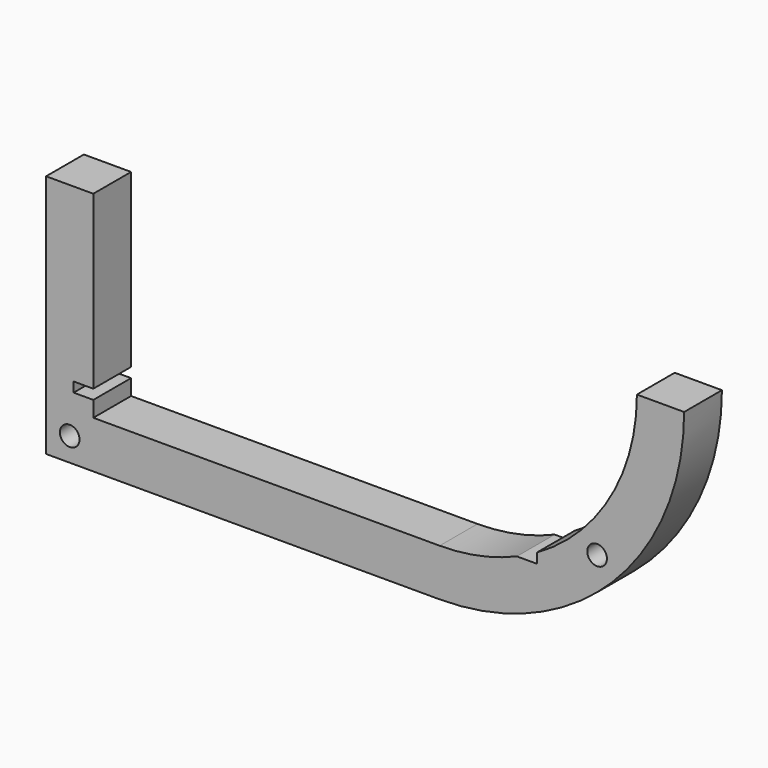
from build123d import *

# Parameters (mm, degrees)
F0_R     = 3.175
F1_DEPTH = 15.24


with BuildPart() as f1:
    # F0 (on Front) → F1 (new body)
    with BuildSketch(Plane.XZ):
        with BuildLine():
            Line((-127, -78.888057), (0, -78.888057))
            ThreePointArc((0, -78.888057), (55.78228, -55.78228), (78.888057, 0))
            Line((78.888057, 0), (63.648057, 0))
            ThreePointArc((63.648057, 0), (54.983186, -32.06126), (31.347797, -55.393057))
            Line((31.347797, -55.393057), (31.347797, -58.568057))
            Line((31.347797, -58.568057), (24.917019, -58.568057))
            ThreePointArc((24.917019, -58.568057), (12.714797, -62.365127), (0, -63.648057))
            Line((0, -63.648057), (-111.76, -63.648057))
            Line((-111.76, -63.648057), (-111.76, -58.568057))
            Line((-111.76, -58.568057), (-118.11, -58.568057))
            Line((-118.11, -58.568057), (-118.11, -55.393057))
            Line((-118.11, -55.393057), (-111.76, -55.393057))
            Line((-111.76, -55.393057), (-111.76, 0))
            Line((-111.76, 0), (-127, 0))
            Line((-127, 0), (-127, -78.888057))
        make_face()
        with Locations((-119.38, -71.268057)):
            Circle(F0_R, mode=Mode.SUBTRACT)
        with Locations((50.8, -49.773632)):
            Circle(F0_R, mode=Mode.SUBTRACT)
    extrude(amount=F1_DEPTH)


solid = f1.part
